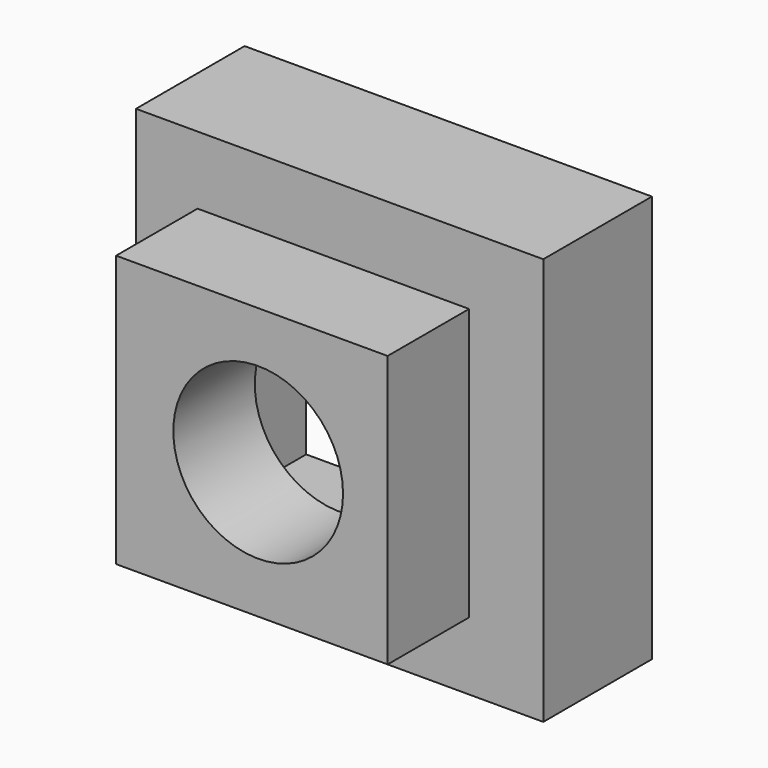
from build123d import *

# Parameters (mm, degrees)
F0_W     = 101.6
F0_H     = 101.6
F0_R     = 31.75
F1_DEPTH = 38.1
F0_W_2   = 152.4
F0_H_2   = 152.4
F2_DEPTH = 50.8


with BuildPart() as f1:
    # F0 (on Front) → F1 (new body)
    with BuildSketch(Plane.XZ):
        with Locations((-2.361919, 0)):
            Rectangle(F0_W, F0_H)
        Circle(F0_R, mode=Mode.SUBTRACT)
    extrude(amount=F1_DEPTH)

    # F0 (on Front) → F2 (join)
    with BuildSketch(Plane.XZ):
        Rectangle(F0_W_2, F0_H_2)
        with Locations((-2.361919, 0)):
            Rectangle(F0_W, F0_H, mode=Mode.SUBTRACT)
    extrude(amount=-F2_DEPTH)


solid = f1.part
